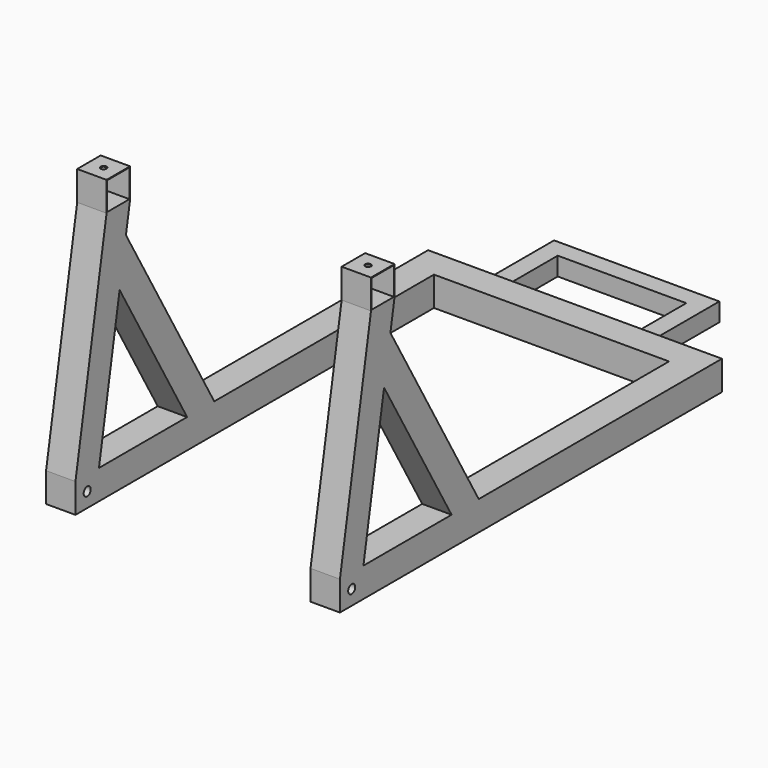
from build123d import *

# Parameters (mm, degrees)
F1_DEPTH  = 40
F2_W      = 25
F2_H      = 25
F3_DEPTH  = 80
F4_W      = 225
F4_H      = 25
F5_DEPTH  = 25
F7_DEPTH  = 40
F9_DEPTH  = 40
F10_R     = 6
F11_DEPTH = 400.001
F12_W     = 40
F12_H     = 40
F12_W_2   = 38
F12_H_2   = 38
F13_DEPTH = 40
F14_W     = 40
F14_H     = 40
F14_W_2   = 38
F14_H_2   = 38
F15_DEPTH = 40
F16_R     = 4
F17_DEPTH = 25
F18_R     = 4
F19_DEPTH = 25
F21_DEPTH = 40
F23_DEPTH = 40


with BuildPart() as f1:
    # F0 (on Top) → F1 (new body)
    with BuildSketch(Plane.XY):
        Polygon((0, 650), (0, 0), (40, 0), (40, 610), (360, 610), (360, 0), (400, 0), (400, 650), align=None)
    extrude(amount=F1_DEPTH)

    # F2 (on face) → F3 (join)
    with BuildSketch(Plane(origin=(0, 650, 0), x_dir=(-1, 0, 0), z_dir=(0, 1, 0))):
        with Locations((-100, 25)):
            Rectangle(F2_W, F2_H)
        with Locations((-300, 25)):
            Rectangle(F2_W, F2_H)
    extrude(amount=F3_DEPTH)

    # F4 (on face) → F5 (join)
    with BuildSketch(Plane(origin=(0, 730, 0), x_dir=(-1, 0, 0), z_dir=(0, 1, 0))):
        with Locations((-200, 25)):
            Rectangle(F4_W, F4_H)
    extrude(amount=F5_DEPTH)

    # F6 (on face) → F7 (join)
    with BuildSketch(Plane(origin=(0, 0, 0), x_dir=(0, -1, 0), z_dir=(-1, 0, 0))):
        Polygon((-40, 40), (0, 40), (-52.8980942125, 340), (-92.8980942125, 340), align=None)
    extrude(amount=-F7_DEPTH)

    # F8 (on face) → F9 (join)
    with BuildSketch(Plane.YZ.offset(400)):
        Polygon((52.8980942125, 340), (0, 40), (40, 40), (92.8980942125, 340), align=None)
    extrude(amount=-F9_DEPTH)

    # F10 (on face) → F11 (cut, through all)
    with BuildSketch(Plane.YZ.offset(400)):
        with Locations((20, 20)):
            Circle(F10_R)
    extrude(amount=-F11_DEPTH, mode=Mode.SUBTRACT)

    # F12 (on face) → F13 (join)
    with BuildSketch(Plane.YZ.offset(400)):
        with Locations((72.8980942125, 360)):
            Rectangle(F12_W, F12_H)
        with Locations((72.8980942125, 360)):
            Rectangle(F12_W_2, F12_H_2, mode=Mode.SUBTRACT)
    extrude(amount=-F13_DEPTH)

    # F14 (on face) → F15 (join)
    with BuildSketch(Plane(origin=(0, 0, 0), x_dir=(0, -1, 0), z_dir=(-1, 0, 0))):
        with Locations((-72.8980942125, 360)):
            Rectangle(F14_W, F14_H)
        with Locations((-72.8980942125, 360)):
            Rectangle(F14_W_2, F14_H_2, mode=Mode.SUBTRACT)
    extrude(amount=-F15_DEPTH)

    # F16 (on face) → F17 (cut)
    with BuildSketch(Plane.XY.offset(380)):
        with Locations((20, 72.8980942125)):
            Circle(F16_R)
    extrude(amount=-F17_DEPTH, mode=Mode.SUBTRACT)

    # F18 (on face) → F19 (cut)
    with BuildSketch(Plane.XY.offset(380)):
        with Locations((380, 72.8980942125)):
            Circle(F18_R)
    extrude(amount=-F19_DEPTH, mode=Mode.SUBTRACT)

    # F20 (on face) → F21 (join)
    with BuildSketch(Plane.YZ.offset(400)):
        Polygon((75.0933335322, 239.0241844507), (190, 40), (236.1880215352, 40), (85.8992778316, 300.3077399002), align=None)
    extrude(amount=-F21_DEPTH)

    # F22 (on face) → F23 (join)
    with BuildSketch(Plane(origin=(0, 0, 0), x_dir=(0, -1, 0), z_dir=(-1, 0, 0))):
        Polygon((-236.1880215352, 40), (-190, 40), (-75.0933335322, 239.0241844507), (-85.8992778316, 300.3077399002), align=None)
    extrude(amount=-F23_DEPTH)


solid = f1.part
